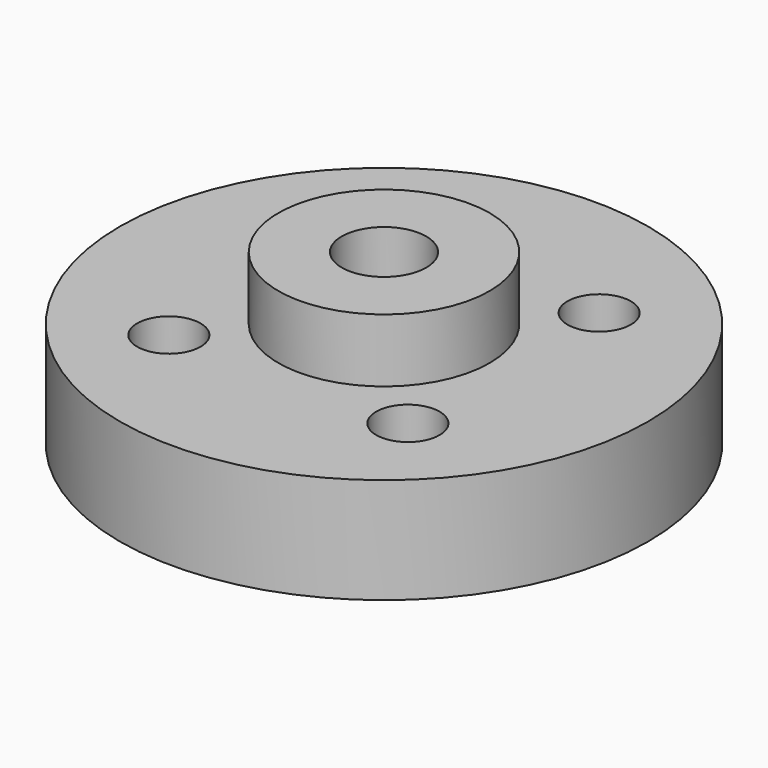
from build123d import *

# Parameters (mm, degrees)
F0_R     = 12.5
F1_DEPTH = 5
F2_R     = 5
F3_DEPTH = 3
F4_R     = 2
F5_DEPTH = 3
F7_DEPTH = 25
F8_R     = 1.5
F9_DEPTH = 25


with BuildPart() as f1:
    # F0 (on Top) → F1 (new body)
    with BuildSketch(Plane.XY):
        Circle(F0_R)
    extrude(amount=F1_DEPTH)

    # F2 (on face) → F3 (join)
    with BuildSketch(Plane.XY.offset(5)):
        Circle(F2_R)
    extrude(amount=F3_DEPTH)

    # F4 (on face) → F5 (cut)
    with BuildSketch(Plane.XY.offset(8)):
        Circle(F4_R)
    extrude(amount=-F5_DEPTH, mode=Mode.SUBTRACT)

    # F6 (on face) → F7 (cut)
    with BuildSketch(Plane(origin=(0, 0, 0), x_dir=(1, 0, 0), z_dir=(0, 0, -1))):
        with BuildLine():
            Line((-1.5, -1.3228756555), (1.5, -1.3228756555))
            ThreePointArc((1.5, -1.3228756555), (0, 2), (-1.5, -1.3228756555))
        make_face()
    extrude(amount=-F7_DEPTH, mode=Mode.SUBTRACT)

    # F8 (on face) → F9 (cut)
    with BuildSketch(Plane(origin=(0, 0, 0), x_dir=(1, 0, 0), z_dir=(0, 0, -1))):
        with Locations((-5.6568542495, 5.6568542495)):
            Circle(F8_R)
        with Locations((-5.6568542495, -5.6568542495)):
            Circle(F8_R)
        with Locations((5.6568542495, -5.6568542495)):
            Circle(F8_R)
        with Locations((5.6568542495, 5.6568542495)):
            Circle(F8_R)
    extrude(amount=-F9_DEPTH, mode=Mode.SUBTRACT)


solid = f1.part
